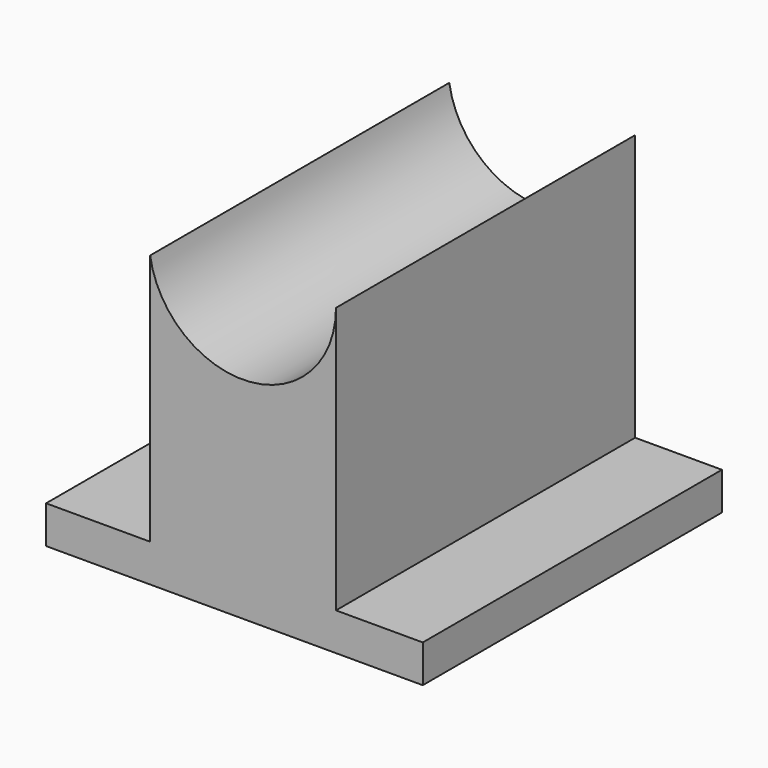
from build123d import *

# Parameters (mm, degrees)
F1_DEPTH = 60


with BuildPart() as f1:
    # F0 (on Front) → F1 (new body)
    with BuildSketch(Plane.XZ):
        with BuildLine():
            ThreePointArc((15, 0), (1.155432, -14.955433), (-14.821997, -2.303998))
            Line((-14.821997, -2.303998), (-14.821997, -42.739153))
            Line((-14.821997, -42.739153), (-31.51473, -42.739153))
            Line((-31.51473, -42.739153), (-31.51473, -48.783079))
            Line((-31.51473, -48.783079), (28.924476, -48.783079))
            Line((28.924476, -48.783079), (28.924476, -42.739153))
            Line((28.924476, -42.739153), (15, -42.739153))
            Line((15, -42.739153), (15, 0))
        make_face()
    extrude(amount=F1_DEPTH)


solid = f1.part
